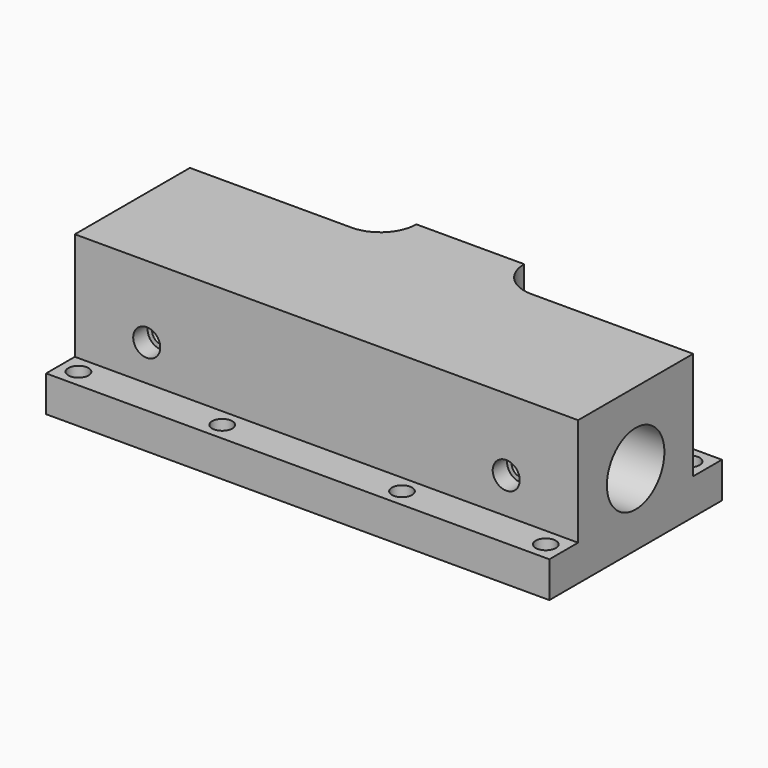
from build123d import *

# Parameters (mm, degrees)
F0_W           = 38.1
F0_H           = 25.4
F0_R           = 6.35
F1_DEPTH       = 44.45
F2_W           = 88.9
F2_H           = 6.35
F3_DEPTH       = 19.05
F5_D           = 8.73125
F5_DEPTH       = 19.05
F7_D           = 3.175
F7_DEPTH       = 12.7
F7_CBORE_D     = 4.7752
F7_CBORE_DEPTH = 3.175
F9_D           = 3.556


with BuildPart() as f1:
    # F0 (on Right) → F1 (new body, symmetric)
    with BuildSketch(Plane.YZ):
        Rectangle(F0_W, F0_H)
        Circle(F0_R, mode=Mode.SUBTRACT)
    extrude(amount=F1_DEPTH, both=True)

    # F2 (on face) → F3 (cut)
    with BuildSketch(Plane.XY.offset(12.7)):
        with BuildLine():
            Line((-9.525, 19.05), (-44.45, 19.05))
            Line((-44.45, 19.05), (-44.45, 12.7))
            Line((-44.45, 12.7), (-15.875, 12.7))
            ThreePointArc((-15.875, 12.7), (-11.384872, 14.559872), (-9.525, 19.05))
        make_face()
        with BuildLine():
            Line((44.45, 12.7), (44.45, 19.05))
            Line((44.45, 19.05), (9.525, 19.05))
            ThreePointArc((9.525, 19.05), (11.384872, 14.559872), (15.875, 12.7))
            Line((15.875, 12.7), (44.45, 12.7))
        make_face()
        with Locations((0, -15.875)):
            Rectangle(F2_W, F2_H)
    extrude(amount=-F3_DEPTH, mode=Mode.SUBTRACT)

    # F5
    with Locations(Plane(origin=(0, 19.05, 0), x_dir=(-1, 0, 0), z_dir=(0, 1, 0))):
        with Locations((0, 0)):
            Hole(F5_D / 2, depth=F5_DEPTH)

    # F7
    with Locations(Plane.XZ.offset(12.7)):
        with Locations((-31.75, 0), (31.75, 0)):
            CounterBoreHole(F7_D / 2, F7_CBORE_D / 2, F7_CBORE_DEPTH, depth=F7_DEPTH)

    # F9 (through all)
    with Locations(Plane.XY.offset(-6.35)):
        with Locations((-41.275, 15.875), (-15.875, 15.875), (15.875, 15.875), (41.275, 15.875), (41.275, -15.875), (15.875, -15.875), (-15.875, -15.875), (-41.275, -15.875)):
            Hole(F9_D / 2)


solid = f1.part
